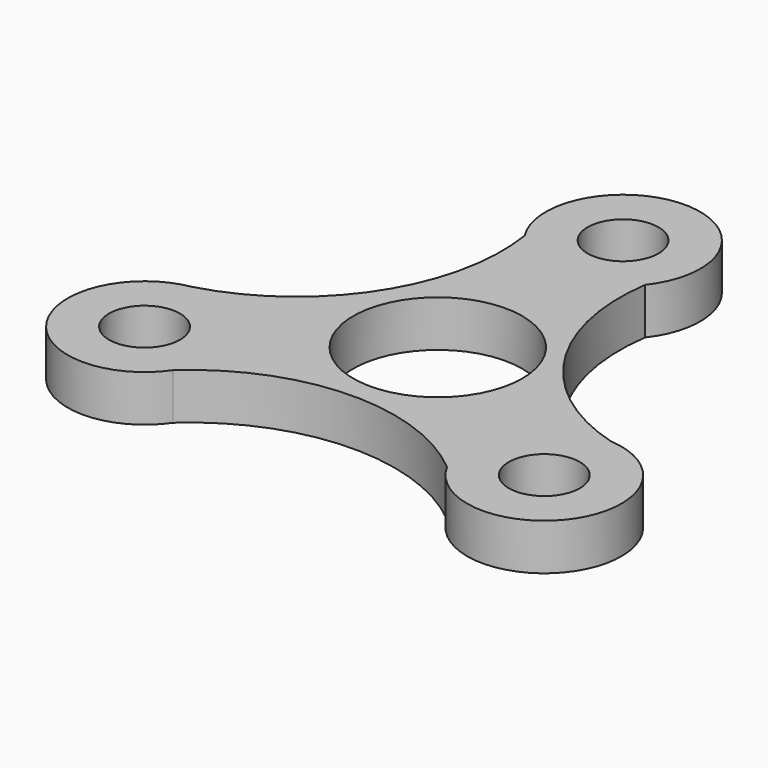
from build123d import *

# Parameters (mm, degrees)
F0_R     = 4.6
F0_R_2   = 10.95
F1_DEPTH = 6


with BuildPart() as f1:
    # F0 (on Top) → F1 (new body)
    with BuildSketch(Plane.XY):
        with BuildLine():
            ThreePointArc((-54.33825, -17.126217), (-69.16794, -6.186809), (-73.096568, 11.817531))
            ThreePointArc((-73.096568, 11.817531), (-80.439934, 28.01532), (-89.348044, 12.622498))
            ThreePointArc((-89.348044, 12.622498), (-93.298938, -5.940555), (-108.607333, -17.158822))
            ThreePointArc((-108.607333, -17.158822), (-115.297331, -32.349517), (-98.700652, -32.601591))
            ThreePointArc((-98.700652, -32.601591), (-81.408097, -25.671054), (-63.831793, -31.846683))
            ThreePointArc((-63.831793, -31.846683), (-46.625, -32.522185), (-54.33825, -17.126217))
        make_face()
        with Locations((-106.915409, -26.972435)):
            Circle(F0_R, mode=Mode.SUBTRACT)
        with Locations((-55.028885, -27.102339)):
            Circle(F0_R, mode=Mode.SUBTRACT)
        with Locations((-80.934647, -11.972435)):
            Circle(F0_R_2, mode=Mode.SUBTRACT)
        with Locations((-80.934647, 18.027565)):
            Circle(F0_R, mode=Mode.SUBTRACT)
    extrude(amount=F1_DEPTH)


solid = f1.part
